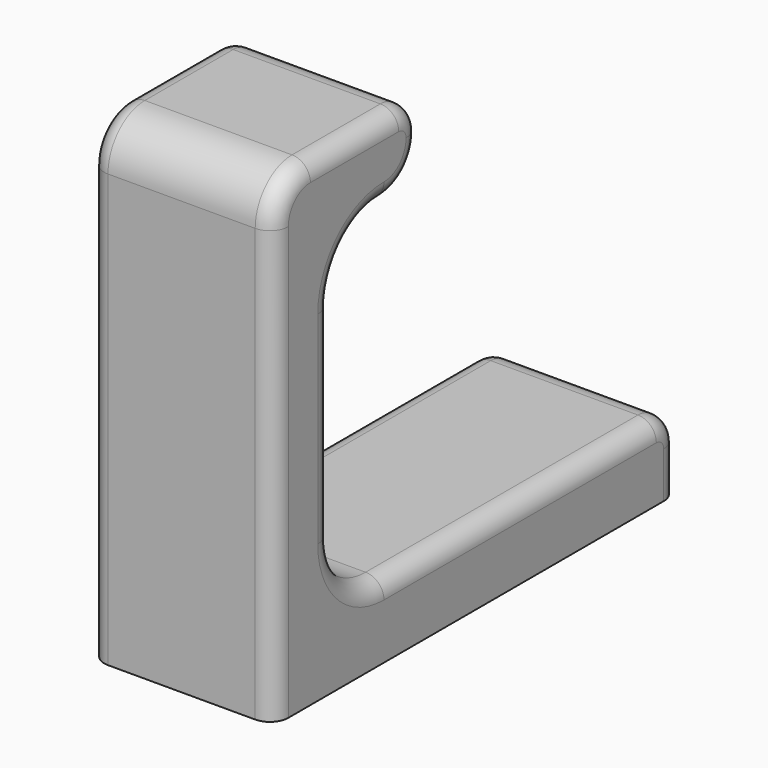
from build123d import *

# Parameters (mm, degrees)
F1_DEPTH = 20
F2_R     = 2


with BuildPart() as f1:
    # F0 (on Right) → F1 (new body)
    with BuildSketch(Plane.YZ):
        with BuildLine():
            Line((-30.307961, 42.925147), (-30.307961, 39.925147))
            Line((-30.307961, 39.925147), (-22.307961, 39.925147))
            Line((-22.307961, 39.925147), (-15.307961, 39.925147))
            ThreePointArc((-15.307961, 39.925147), (-11.772427, 41.389613), (-10.307961, 44.925147))
            ThreePointArc((-10.307961, 44.925147), (-11.18664, 47.046467), (-13.307961, 47.925147))
            Line((-13.307961, 47.925147), (-25.307961, 47.925147))
            ThreePointArc((-25.307961, 47.925147), (-28.843495, 46.460681), (-30.307961, 42.925147))
        make_face()
        Polygon((-30.307961, 39.925147), (-30.307961, 3.925147), (-22.307961, 3.925147), (-22.307961, 10.925147), (-22.307961, 32.925147), (-22.307961, 39.925147), align=None)
        with BuildLine():
            Line((-22.307961, 10.925147), (-22.307961, 3.925147))
            Line((-22.307961, 3.925147), (-15.307961, 3.925147))
            ThreePointArc((-15.307961, 3.925147), (-20.257708, 5.975399), (-22.307961, 10.925147))
        make_face()
        with BuildLine():
            Line((-22.307961, 3.925147), (-30.307961, 3.925147))
            Line((-30.307961, 3.925147), (-30.307961, -4.074853))
            Line((-30.307961, -4.074853), (24.692039, -4.074853))
            Line((24.692039, -4.074853), (24.692039, 0.925147))
            ThreePointArc((24.692039, 0.925147), (23.81336, 3.046467), (21.692039, 3.925147))
            Line((21.692039, 3.925147), (-15.307961, 3.925147))
            Line((-15.307961, 3.925147), (-22.307961, 3.925147))
        make_face()
        with BuildLine():
            Line((-15.307961, 39.925147), (-22.307961, 39.925147))
            Line((-22.307961, 39.925147), (-22.307961, 32.925147))
            ThreePointArc((-22.307961, 32.925147), (-20.257708, 37.874894), (-15.307961, 39.925147))
        make_face()
    extrude(amount=F1_DEPTH)

    # F2
    f2_edges = [f1.edges().sort_by_distance(p)[0] for p in [
        (20, 3.192039, 3.925147),
        (20, -20.257708, 5.975399),
        (20, -22.307961, 21.925147),
        (20, -20.257708, 37.874894),
        (20, -11.772427, 41.389613),
        (20, 23.81336, 3.046467),
        (20, -11.18664, 47.046467),
        (20, -19.307961, 47.925147),
        (20, -28.843495, 46.460681),
        (20, 24.692039, -1.574853),
        (20, -30.307961, 19.425147),
        (0, 24.692039, -1.574853),
        (0, 23.81336, 3.046467),
    ]]
    fillet(f2_edges, radius=F2_R)


solid = f1.part
